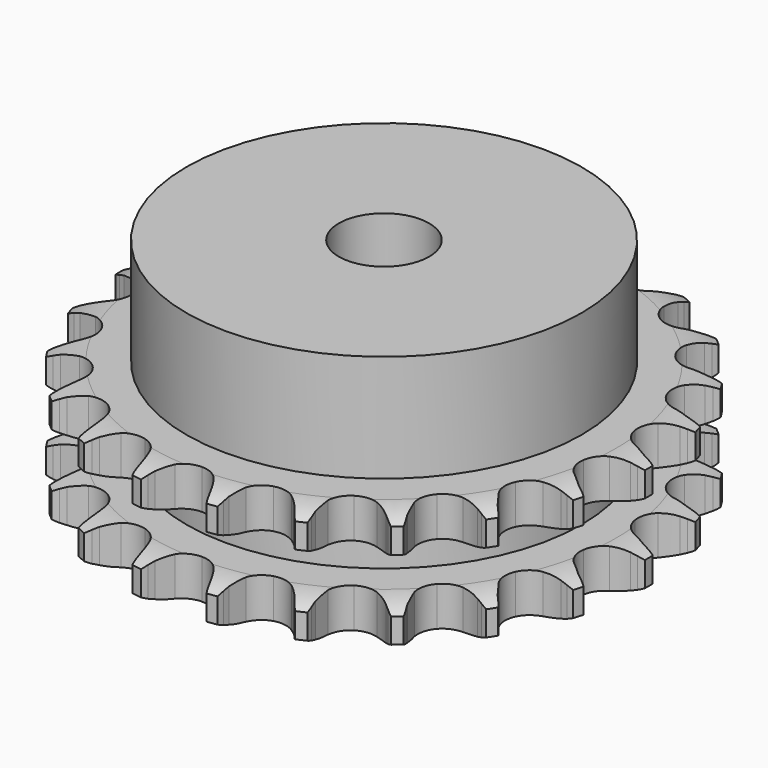
from build123d import *

# Parameters (mm, degrees)
PAD_DEPTH         = 21
SKETCH001_R       = 35
PAD001_DEPTH      = 40
SKETCH002_R       = 8
POCKET_DEPTH      = 0.001
POCKET_DEPTH_BACK = 40.001


with BuildPart() as part:
    # Sprocket → Pad (new body)
    with BuildSketch(Plane.XY):
        with BuildLine():
            ThreePointArc((-6.888681, 47.911827), (-5.985415, 46.823172), (-5.319648, 45.575049))
            Line((-5.319648, 45.575049), (-4.90787, 44.569666))
            ThreePointArc((-4.90787, 44.569666), (-4.247592, 43.224033), (-3.412379, 41.9794))
            ThreePointArc((-3.412379, 41.9794), (-1.900521, 40.746159), (0, 40.305006))
            ThreePointArc((0, 40.305006), (1.900521, 40.746159), (3.412379, 41.9794))
            ThreePointArc((3.412379, 41.9794), (4.247592, 43.224033), (4.90787, 44.569666))
            Line((4.90787, 44.569666), (5.319648, 45.575049))
            ThreePointArc((5.319648, 45.575049), (5.985415, 46.823172), (6.888681, 47.911827))
            ThreePointArc((6.888681, 47.911827), (7.448649, 46.612791), (7.73581, 45.227657))
            Line((7.73581, 45.227657), (7.847659, 44.146988))
            ThreePointArc((7.847659, 44.146988), (8.102083, 42.669841), (8.55281, 41.240317))
            ThreePointArc((8.55281, 41.240317), (9.655983, 39.631092), (11.355232, 38.67237))
            ThreePointArc((11.355232, 38.67237), (13.303056, 38.560214), (15.101117, 39.317561))
            Line((15.101117, 39.317561), (17.265792, 41.381574))
            ThreePointArc((17.265792, 41.381574), (17.594598, 41.814185), (17.94414, 42.230221))
            ThreePointArc((17.94414, 42.230221), (18.934576, 43.240219), (20.107962, 44.030296))
            ThreePointArc((20.107962, 44.030296), (20.279267, 42.626119), (20.164559, 41.21619))
            Line((20.164559, 41.21619), (19.967418, 40.147783))
            ThreePointArc((19.967418, 40.147783), (19.795375, 38.658792), (19.825101, 37.160189))
            ThreePointArc((19.825101, 37.160189), (20.430216, 35.305349), (21.790531, 33.906729))
            ThreePointArc((21.790531, 33.906729), (23.627857, 33.250351), (25.566453, 33.470447))
            Line((25.566453, 33.470447), (28.224943, 34.840994))
            ThreePointArc((28.224943, 34.840994), (28.662311, 35.163446), (29.114905, 35.464152))
            ThreePointArc((29.114905, 35.464152), (30.34977, 36.1542), (31.698216, 36.581692))
            ThreePointArc((31.698216, 36.581692), (31.466979, 35.186132), (30.959695, 33.865632))
            Line((30.959695, 33.865632), (30.469535, 32.896044))
            ThreePointArc((30.469535, 32.896044), (29.884964, 31.515838), (29.49128, 30.069564))
            ThreePointArc((29.49128, 30.069564), (29.549315, 28.119377), (30.460491, 26.394166))
            ThreePointArc((30.460491, 26.394166), (32.038469, 25.246741), (33.960546, 24.911757))
            Line((33.960546, 24.911757), (36.897477, 25.477804))
            ThreePointArc((36.897477, 25.477804), (37.407973, 25.663973), (37.926952, 25.824988))
            ThreePointArc((37.926952, 25.824988), (39.306206, 26.139182), (40.720469, 26.169457))
            ThreePointArc((40.720469, 26.169457), (40.105425, 24.895574), (39.246661, 23.771482))
            Line((39.246661, 23.771482), (38.503191, 22.979264))
            ThreePointArc((38.503191, 22.979264), (37.55345, 21.819658), (36.768252, 20.542882))
            ThreePointArc((36.768252, 20.542882), (36.274505, 18.655341), (36.662723, 16.743305))
            ThreePointArc((36.662723, 16.743305), (37.853515, 15.197791), (39.603358, 14.334864))
            Line((39.603358, 14.334864), (42.580797, 14.050553))
            ThreePointArc((42.580797, 14.050553), (43.123064, 14.085358), (43.666384, 14.093637))
            ThreePointArc((43.666384, 14.093637), (45.078287, 14.006524), (46.443792, 13.637128))
            ThreePointArc((46.443792, 13.637128), (45.494767, 12.588124), (44.354096, 11.751508))
            Line((44.354096, 11.751508), (43.417548, 11.200839))
            ThreePointArc((43.417548, 11.200839), (42.17958, 10.355779), (41.066478, 9.351937))
            ThreePointArc((41.066478, 9.351937), (40.060949, 7.67996), (39.894759, 5.736))
            ThreePointArc((39.894759, 5.736), (40.601894, 3.917606), (42.037742, 2.596646))
            Line((42.037742, 2.596646), (44.814474, 1.48501))
            ThreePointArc((44.814474, 1.48501), (45.344581, 1.365631), (45.868225, 1.220504))
            ThreePointArc((45.868225, 1.220504), (47.198393, 0.73914), (48.404515, 0))
            ThreePointArc((48.404515, 0), (47.198393, -0.73914), (45.868225, -1.220504))
            Line((45.868225, -1.220504), (44.814474, -1.48501))
            ThreePointArc((44.814474, -1.48501), (43.38857, -1.947064), (42.037742, -2.596646))
            ThreePointArc((42.037742, -2.596646), (40.601894, -3.917606), (39.894759, -5.736))
            ThreePointArc((39.894759, -5.736), (40.060949, -7.67996), (41.066478, -9.351937))
            Line((41.066478, -9.351937), (43.417548, -11.200839))
            ThreePointArc((43.417548, -11.200839), (43.89255, -11.464731), (44.354096, -11.751508))
            ThreePointArc((44.354096, -11.751508), (45.494767, -12.588124), (46.443792, -13.637128))
            ThreePointArc((46.443792, -13.637128), (45.078287, -14.006524), (43.666384, -14.093637))
            Line((43.666384, -14.093637), (42.580797, -14.050553))
            ThreePointArc((42.580797, -14.050553), (41.082477, -14.092167), (39.603358, -14.334864))
            ThreePointArc((39.603358, -14.334864), (37.853515, -15.197791), (36.662723, -16.743305))
            ThreePointArc((36.662723, -16.743305), (36.274505, -18.655341), (36.768252, -20.542882))
            Line((36.768252, -20.542882), (38.503191, -22.979264))
            ThreePointArc((38.503191, -22.979264), (38.884605, -23.366289), (39.246661, -23.771482))
            ThreePointArc((39.246661, -23.771482), (40.105425, -24.895574), (40.720469, -26.169457))
            ThreePointArc((40.720469, -26.169457), (39.306206, -26.139182), (37.926952, -25.824988))
            Line((37.926952, -25.824988), (36.897477, -25.477804))
            ThreePointArc((36.897477, -25.477804), (35.448126, -25.095606), (33.960546, -24.911757))
            ThreePointArc((33.960546, -24.911757), (32.038469, -25.246741), (30.460491, -26.394166))
            ThreePointArc((30.460491, -26.394166), (29.549315, -28.119377), (29.49128, -30.069564))
            Line((29.49128, -30.069564), (30.469535, -32.896044))
            ThreePointArc((30.469535, -32.896044), (30.726461, -33.37485), (30.959695, -33.865632))
            ThreePointArc((30.959695, -33.865632), (31.466979, -35.186132), (31.698216, -36.581692))
            ThreePointArc((31.698216, -36.581692), (30.34977, -36.1542), (29.114905, -35.464152))
            Line((29.114905, -35.464152), (28.224943, -34.840994))
            ThreePointArc((28.224943, -34.840994), (26.941978, -34.065949), (25.566453, -33.470447))
            ThreePointArc((25.566453, -33.470447), (23.627857, -33.250351), (21.790531, -33.906729))
            ThreePointArc((21.790531, -33.906729), (20.430216, -35.305349), (19.825101, -37.160189))
            Line((19.825101, -37.160189), (19.967418, -40.147783))
            ThreePointArc((19.967418, -40.147783), (20.079041, -40.679578), (20.164559, -41.21619))
            ThreePointArc((20.164559, -41.21619), (20.279267, -42.626119), (20.107962, -44.030296))
            ThreePointArc((20.107962, -44.030296), (18.934576, -43.240219), (17.94414, -42.230221))
            Line((17.94414, -42.230221), (17.265792, -41.381574))
            ThreePointArc((17.265792, -41.381574), (16.253152, -40.276471), (15.101117, -39.317561))
            ThreePointArc((15.101117, -39.317561), (13.303056, -38.560214), (11.355232, -38.67237))
            ThreePointArc((11.355232, -38.67237), (9.655983, -39.631092), (8.55281, -41.240317))
            Line((8.55281, -41.240317), (7.847659, -44.146988))
            ThreePointArc((7.847659, -44.146988), (7.804938, -44.688689), (7.73581, -45.227657))
            ThreePointArc((7.73581, -45.227657), (7.448649, -46.612791), (6.888681, -47.911827))
            ThreePointArc((6.888681, -47.911827), (5.985415, -46.823172), (5.319648, -45.575049))
            Line((5.319648, -45.575049), (4.90787, -44.569666))
            ThreePointArc((4.90787, -44.569666), (4.247592, -43.224033), (3.412379, -41.9794))
            ThreePointArc((3.412379, -41.9794), (1.900521, -40.746159), (0, -40.305006))
            ThreePointArc((0, -40.305006), (-1.900521, -40.746159), (-3.412379, -41.9794))
            Line((-3.412379, -41.9794), (-4.90787, -44.569666))
            ThreePointArc((-4.90787, -44.569666), (-5.101476, -45.077388), (-5.319648, -45.575049))
            ThreePointArc((-5.319648, -45.575049), (-5.985415, -46.823172), (-6.888681, -47.911827))
            ThreePointArc((-6.888681, -47.911827), (-7.448649, -46.612791), (-7.73581, -45.227657))
            Line((-7.73581, -45.227657), (-7.847659, -44.146988))
            ThreePointArc((-7.847659, -44.146988), (-8.102083, -42.669841), (-8.55281, -41.240317))
            ThreePointArc((-8.55281, -41.240317), (-9.655983, -39.631092), (-11.355232, -38.67237))
            ThreePointArc((-11.355232, -38.67237), (-13.303056, -38.560214), (-15.101117, -39.317561))
            Line((-15.101117, -39.317561), (-17.265792, -41.381574))
            ThreePointArc((-17.265792, -41.381574), (-17.594598, -41.814185), (-17.94414, -42.230221))
            ThreePointArc((-17.94414, -42.230221), (-18.934576, -43.240219), (-20.107962, -44.030296))
            ThreePointArc((-20.107962, -44.030296), (-20.279267, -42.626119), (-20.164559, -41.21619))
            Line((-20.164559, -41.21619), (-19.967418, -40.147783))
            ThreePointArc((-19.967418, -40.147783), (-19.795375, -38.658792), (-19.825101, -37.160189))
            ThreePointArc((-19.825101, -37.160189), (-20.430216, -35.305349), (-21.790531, -33.906729))
            ThreePointArc((-21.790531, -33.906729), (-23.627857, -33.250351), (-25.566453, -33.470447))
            Line((-25.566453, -33.470447), (-28.224943, -34.840994))
            ThreePointArc((-28.224943, -34.840994), (-28.662311, -35.163446), (-29.114905, -35.464152))
            ThreePointArc((-29.114905, -35.464152), (-30.34977, -36.1542), (-31.698216, -36.581692))
            ThreePointArc((-31.698216, -36.581692), (-31.466979, -35.186132), (-30.959695, -33.865632))
            Line((-30.959695, -33.865632), (-30.469535, -32.896044))
            ThreePointArc((-30.469535, -32.896044), (-29.884964, -31.515838), (-29.49128, -30.069564))
            ThreePointArc((-29.49128, -30.069564), (-29.549315, -28.119377), (-30.460491, -26.394166))
            ThreePointArc((-30.460491, -26.394166), (-32.038469, -25.246741), (-33.960546, -24.911757))
            Line((-33.960546, -24.911757), (-36.897477, -25.477804))
            ThreePointArc((-36.897477, -25.477804), (-37.407973, -25.663973), (-37.926952, -25.824988))
            ThreePointArc((-37.926952, -25.824988), (-39.306206, -26.139182), (-40.720469, -26.169457))
            ThreePointArc((-40.720469, -26.169457), (-40.105425, -24.895574), (-39.246661, -23.771482))
            Line((-39.246661, -23.771482), (-38.503191, -22.979264))
            ThreePointArc((-38.503191, -22.979264), (-37.55345, -21.819658), (-36.768252, -20.542882))
            ThreePointArc((-36.768252, -20.542882), (-36.274505, -18.655341), (-36.662723, -16.743305))
            ThreePointArc((-36.662723, -16.743305), (-37.853515, -15.197791), (-39.603358, -14.334864))
            Line((-39.603358, -14.334864), (-42.580797, -14.050553))
            ThreePointArc((-42.580797, -14.050553), (-43.123064, -14.085358), (-43.666384, -14.093637))
            ThreePointArc((-43.666384, -14.093637), (-45.078287, -14.006524), (-46.443792, -13.637128))
            ThreePointArc((-46.443792, -13.637128), (-45.494767, -12.588124), (-44.354096, -11.751508))
            Line((-44.354096, -11.751508), (-43.417548, -11.200839))
            ThreePointArc((-43.417548, -11.200839), (-42.17958, -10.355779), (-41.066478, -9.351937))
            ThreePointArc((-41.066478, -9.351937), (-40.060949, -7.67996), (-39.894759, -5.736))
            ThreePointArc((-39.894759, -5.736), (-40.601894, -3.917606), (-42.037742, -2.596646))
            Line((-42.037742, -2.596646), (-44.814474, -1.48501))
            ThreePointArc((-44.814474, -1.48501), (-45.344581, -1.365631), (-45.868225, -1.220504))
            ThreePointArc((-45.868225, -1.220504), (-47.198393, -0.73914), (-48.404515, 0))
            ThreePointArc((-48.404515, 0), (-47.198393, 0.73914), (-45.868225, 1.220504))
            Line((-45.868225, 1.220504), (-44.814474, 1.48501))
            ThreePointArc((-44.814474, 1.48501), (-43.38857, 1.947064), (-42.037742, 2.596646))
            ThreePointArc((-42.037742, 2.596646), (-40.601894, 3.917606), (-39.894759, 5.736))
            ThreePointArc((-39.894759, 5.736), (-40.060949, 7.67996), (-41.066478, 9.351937))
            Line((-41.066478, 9.351937), (-43.417548, 11.200839))
            ThreePointArc((-43.417548, 11.200839), (-43.89255, 11.464731), (-44.354096, 11.751508))
            ThreePointArc((-44.354096, 11.751508), (-45.494767, 12.588124), (-46.443792, 13.637128))
            ThreePointArc((-46.443792, 13.637128), (-45.078287, 14.006524), (-43.666384, 14.093637))
            Line((-43.666384, 14.093637), (-42.580797, 14.050553))
            ThreePointArc((-42.580797, 14.050553), (-41.082477, 14.092167), (-39.603358, 14.334864))
            ThreePointArc((-39.603358, 14.334864), (-37.853515, 15.197791), (-36.662723, 16.743305))
            ThreePointArc((-36.662723, 16.743305), (-36.274505, 18.655341), (-36.768252, 20.542882))
            Line((-36.768252, 20.542882), (-38.503191, 22.979264))
            ThreePointArc((-38.503191, 22.979264), (-38.884605, 23.366289), (-39.246661, 23.771482))
            ThreePointArc((-39.246661, 23.771482), (-40.105425, 24.895574), (-40.720469, 26.169457))
            ThreePointArc((-40.720469, 26.169457), (-39.306206, 26.139182), (-37.926952, 25.824988))
            Line((-37.926952, 25.824988), (-36.897477, 25.477804))
            ThreePointArc((-36.897477, 25.477804), (-35.448126, 25.095606), (-33.960546, 24.911757))
            ThreePointArc((-33.960546, 24.911757), (-32.038469, 25.246741), (-30.460491, 26.394166))
            ThreePointArc((-30.460491, 26.394166), (-29.549315, 28.119377), (-29.49128, 30.069564))
            Line((-29.49128, 30.069564), (-30.469535, 32.896044))
            ThreePointArc((-30.469535, 32.896044), (-30.726461, 33.37485), (-30.959695, 33.865632))
            ThreePointArc((-30.959695, 33.865632), (-31.466979, 35.186132), (-31.698216, 36.581692))
            ThreePointArc((-31.698216, 36.581692), (-30.34977, 36.1542), (-29.114905, 35.464152))
            Line((-29.114905, 35.464152), (-28.224943, 34.840994))
            ThreePointArc((-28.224943, 34.840994), (-26.941978, 34.065949), (-25.566453, 33.470447))
            ThreePointArc((-25.566453, 33.470447), (-23.627857, 33.250351), (-21.790531, 33.906729))
            ThreePointArc((-21.790531, 33.906729), (-20.430216, 35.305349), (-19.825101, 37.160189))
            Line((-19.825101, 37.160189), (-19.967418, 40.147783))
            ThreePointArc((-19.967418, 40.147783), (-20.079041, 40.679578), (-20.164559, 41.21619))
            ThreePointArc((-20.164559, 41.21619), (-20.279267, 42.626119), (-20.107962, 44.030296))
            ThreePointArc((-20.107962, 44.030296), (-18.934576, 43.240219), (-17.94414, 42.230221))
            Line((-17.94414, 42.230221), (-17.265792, 41.381574))
            ThreePointArc((-17.265792, 41.381574), (-16.253152, 40.276471), (-15.101117, 39.317561))
            ThreePointArc((-15.101117, 39.317561), (-13.303056, 38.560214), (-11.355232, 38.67237))
            ThreePointArc((-11.355232, 38.67237), (-9.655983, 39.631092), (-8.55281, 41.240317))
            Line((-8.55281, 41.240317), (-7.847659, 44.146988))
            ThreePointArc((-7.847659, 44.146988), (-7.804938, 44.688689), (-7.73581, 45.227657))
            ThreePointArc((-7.73581, 45.227657), (-7.448649, 46.612791), (-6.888681, 47.911827))
        make_face()
    extrude(amount=PAD_DEPTH)

    # Sketch → Groove (revolve, cut)
    with BuildSketch(Plane.XZ):
        with BuildLine():
            ThreePointArc((41.233431, 0), (44.14032, 0.329167), (46.9, 1.3))
            Line((46.9, 1.3), (46.9, 5.7))
            ThreePointArc((46.9, 5.7), (44.14032, 6.670833), (41.233431, 7))
            Line((35, 7), (41.233431, 7))
            Line((35, 14), (35, 7))
            Line((41.233431, 14), (35, 14))
            ThreePointArc((41.233431, 14), (44.14032, 14.329167), (46.9, 15.3))
            Line((46.9, 15.3), (46.9, 19.7))
            ThreePointArc((46.9, 19.7), (44.14032, 20.670833), (41.233431, 21))
            Line((41.233431, 21), (51.233431, 21))
            Line((51.233431, 21), (51.233431, 0))
            Line((41.233431, 0), (51.233431, 0))
        make_face()
    revolve(axis=Axis((0, 0, 0), (0, 0, 1)), mode=Mode.SUBTRACT)

    # Sketch001 → Pad001 (join)
    with BuildSketch(Plane.XY):
        Circle(SKETCH001_R)
    extrude(amount=PAD001_DEPTH)

    # Sketch002 → Pocket (cut, two sides)
    with BuildSketch(Plane.XY) as pocket_sk:
        Circle(SKETCH002_R)
    extrude(amount=-POCKET_DEPTH, mode=Mode.SUBTRACT)
    extrude(pocket_sk.sketch, amount=POCKET_DEPTH_BACK, mode=Mode.SUBTRACT)


solid = part.part
